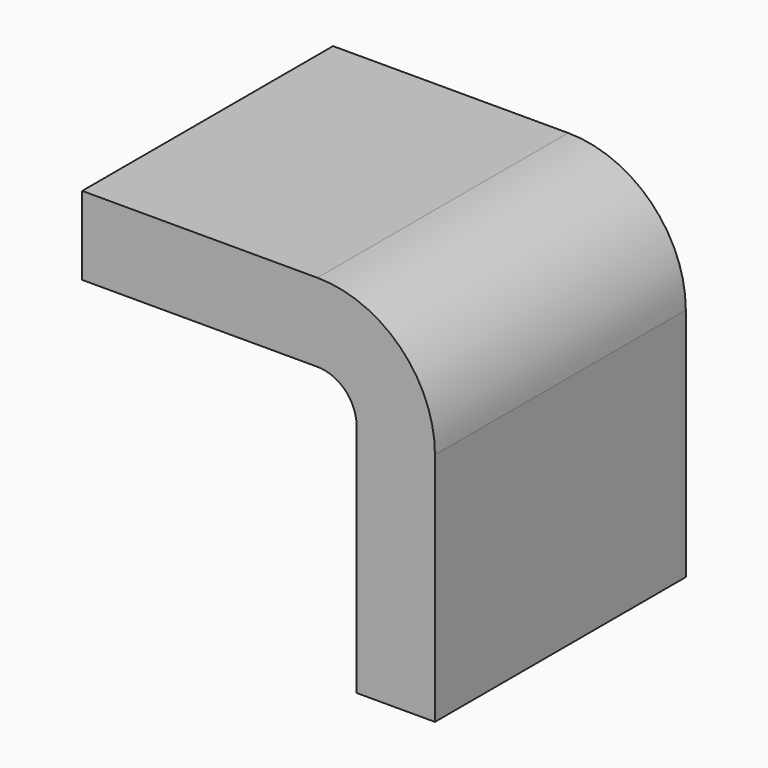
from build123d import *

# Parameters (mm, degrees)
F1_W = 10
F1_H = 2.5


with BuildPart() as f2:
    # F2: sweep along a path in F0
    with BuildLine(Plane.XZ) as f2_path:
        Line((0, 0), (7.5, 0))
        ThreePointArc((7.5, 0), (9.267767, -0.732233), (10, -2.5))
        Line((10, -2.5), (10, -10))
    # F1 (on Right) → F2 (sweep)
    with BuildSketch(Plane.YZ):
        Rectangle(F1_W, F1_H)
    sweep(path=f2_path.line)


solid = f2.part
